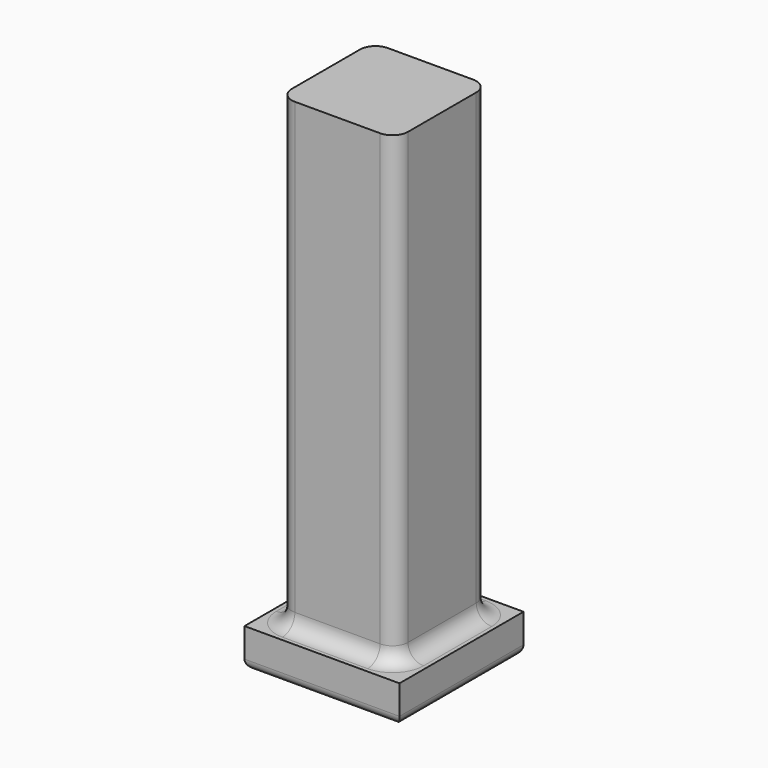
from build123d import *

# Parameters (mm, degrees)
F0_W     = 50.8
F0_H     = 50.8
F1_DEPTH = 12.7
F2_W     = 38.1
F2_H     = 38.1
F3_DEPTH = 152.4
F4_R     = 5.08
F5_R     = 3.175


with BuildPart() as f1:
    # F0 (on Top) → F1 (new body)
    with BuildSketch(Plane.XY):
        with Locations((-25.4, 25.4)):
            Rectangle(F0_W, F0_H)
    extrude(amount=F1_DEPTH)

    # F2 (on face) → F3 (join)
    with BuildSketch(Plane.XY.offset(12.7)):
        with Locations((-25.4, 25.4)):
            Rectangle(F2_W, F2_H)
    extrude(amount=F3_DEPTH)

    # F4
    f4_edges = [f1.edges().sort_by_distance(p)[0] for p in [
        (-25.4, 6.35, 12.7),
        (-6.35, 25.4, 12.7),
        (-25.4, 44.45, 12.7),
        (-44.45, 25.4, 12.7),
        (-44.45, 44.45, 88.9),
        (-44.45, 6.35, 88.9),
        (-6.35, 6.35, 88.9),
        (-6.35, 44.45, 88.9),
    ]]
    fillet(f4_edges, radius=F4_R)

    # F5
    f5_edges = [f1.edges().sort_by_distance(p)[0] for p in [
        (-25.4, 0, 0),
        (0, 25.4, 0),
        (-25.4, 50.8, 0),
        (-50.8, 25.4, 0),
    ]]
    fillet(f5_edges, radius=F5_R)


solid = f1.part
